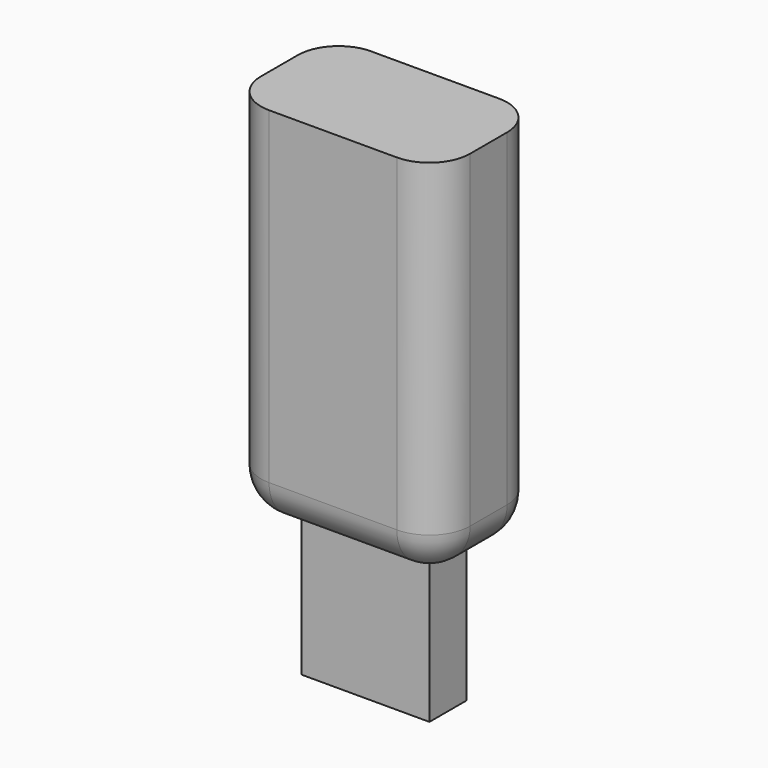
from build123d import *

# Parameters (mm, degrees)
F0_W     = 7.7586211264
F0_H     = 13.5775841773
F1_DEPTH = 4.7
F2_DEPTH = 0.05
F3_R     = 1.5
F4_DEPTH = 5.34


with BuildPart() as f1:
    # F0 (on Front) → F1 (new body)
    with BuildSketch(Plane.XZ):
        with Locations((-25.3125019372, 38.5021548718)):
            Rectangle(F0_W, F0_H)
    extrude(amount=F1_DEPTH)

    # F2 (cut): a face of the model
    f2_faces = [f1.faces().sort_by_distance(p)[0] for p in [
        (-29.1918125004, -2.35, 38.5021548718),
    ]]
    extrude(f2_faces, amount=-F2_DEPTH, mode=Mode.SUBTRACT)

    # F3
    f3_edges = [f1.edges().sort_by_distance(p)[0] for p in [
        (-29.141813, -4.7, 38.502155),
        (-29.141813, 0, 38.502155),
        (-21.433191, 0, 38.502155),
        (-21.433191, -4.7, 38.502155),
        (-25.287502, -4.7, 31.713363),
        (-25.287502, 0, 31.713363),
        (-21.433191, -2.35, 31.713363),
        (-29.141813, -2.35, 31.713363),
    ]]
    fillet(f3_edges, radius=F3_R)

    # F4 (add): a face of the model
    f4_faces = [f1.faces().sort_by_distance(p)[0] for p in [
        (-25.2875019372, -2.35, 31.7133627832),
    ]]
    extrude(f4_faces, amount=F4_DEPTH)


solid = f1.part
